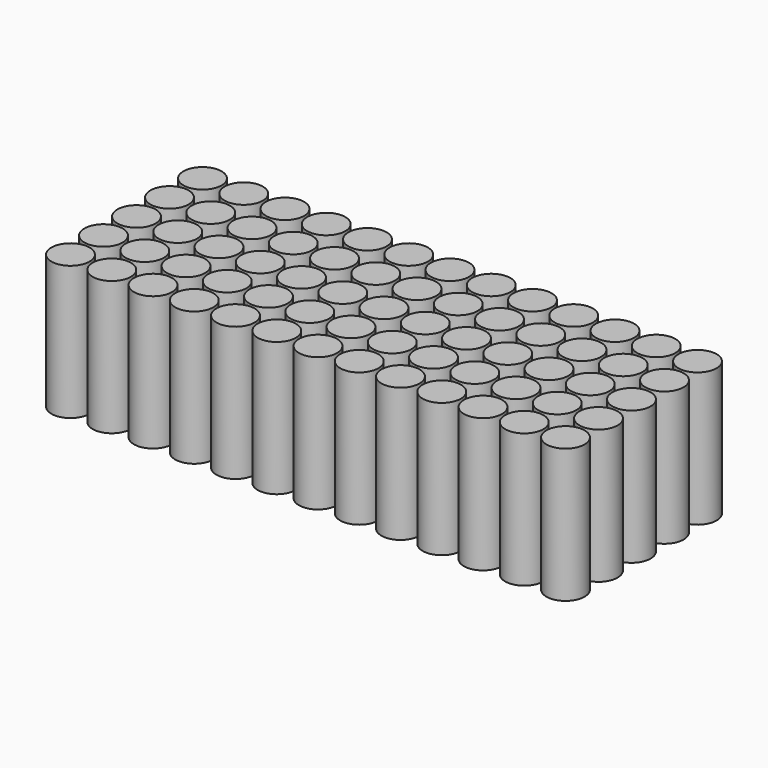
from build123d import *

# Parameters (mm, degrees)
F0_R     = 9.25
F1_DEPTH = 65


with BuildPart() as f1:
    # F0 (on Top) → F1 (new body)
    with BuildSketch(Plane.XY):
        with Locations((-84.008351, 22.78617)):
            Circle(F0_R)
        with Locations((-84.008351, 42.78617)):
            Circle(F0_R)
        with Locations((-84.008351, 62.78617)):
            Circle(F0_R)
        with Locations((-84.008351, 82.78617)):
            Circle(F0_R)
        with Locations((-84.008351, 102.78617)):
            Circle(F0_R)
        with Locations((-64.008351, 22.78617)):
            Circle(F0_R)
        with Locations((-64.008351, 42.78617)):
            Circle(F0_R)
        with Locations((-64.008351, 62.78617)):
            Circle(F0_R)
        with Locations((-64.008351, 82.78617)):
            Circle(F0_R)
        with Locations((-64.008351, 102.78617)):
            Circle(F0_R)
        with Locations((-44.008351, 22.78617)):
            Circle(F0_R)
        with Locations((-44.008351, 42.78617)):
            Circle(F0_R)
        with Locations((-44.008351, 62.78617)):
            Circle(F0_R)
        with Locations((-44.008351, 82.78617)):
            Circle(F0_R)
        with Locations((-44.008351, 102.78617)):
            Circle(F0_R)
        with Locations((-24.008351, 22.78617)):
            Circle(F0_R)
        with Locations((-24.008351, 42.78617)):
            Circle(F0_R)
        with Locations((-24.008351, 62.78617)):
            Circle(F0_R)
        with Locations((-24.008351, 82.78617)):
            Circle(F0_R)
        with Locations((-24.008351, 102.78617)):
            Circle(F0_R)
        with Locations((-4.008351, 22.78617)):
            Circle(F0_R)
        with Locations((-4.008351, 42.78617)):
            Circle(F0_R)
        with Locations((-4.008351, 62.78617)):
            Circle(F0_R)
        with Locations((-4.008351, 82.78617)):
            Circle(F0_R)
        with Locations((-4.008351, 102.78617)):
            Circle(F0_R)
        with Locations((15.991649, 22.78617)):
            Circle(F0_R)
        with Locations((15.991649, 42.78617)):
            Circle(F0_R)
        with Locations((15.991649, 62.78617)):
            Circle(F0_R)
        with Locations((15.991649, 82.78617)):
            Circle(F0_R)
        with Locations((15.991649, 102.78617)):
            Circle(F0_R)
        with Locations((35.991649, 22.78617)):
            Circle(F0_R)
        with Locations((35.991649, 42.78617)):
            Circle(F0_R)
        with Locations((35.991649, 62.78617)):
            Circle(F0_R)
        with Locations((35.991649, 82.78617)):
            Circle(F0_R)
        with Locations((35.991649, 102.78617)):
            Circle(F0_R)
        with Locations((55.991649, 22.78617)):
            Circle(F0_R)
        with Locations((55.991649, 42.78617)):
            Circle(F0_R)
        with Locations((55.991649, 62.78617)):
            Circle(F0_R)
        with Locations((55.991649, 82.78617)):
            Circle(F0_R)
        with Locations((55.991649, 102.78617)):
            Circle(F0_R)
        with Locations((75.991649, 22.78617)):
            Circle(F0_R)
        with Locations((75.991649, 42.78617)):
            Circle(F0_R)
        with Locations((75.991649, 62.78617)):
            Circle(F0_R)
        with Locations((75.991649, 82.78617)):
            Circle(F0_R)
        with Locations((75.991649, 102.78617)):
            Circle(F0_R)
        with Locations((95.991649, 22.78617)):
            Circle(F0_R)
        with Locations((95.991649, 42.78617)):
            Circle(F0_R)
        with Locations((95.991649, 62.78617)):
            Circle(F0_R)
        with Locations((95.991649, 82.78617)):
            Circle(F0_R)
        with Locations((95.991649, 102.78617)):
            Circle(F0_R)
        with Locations((115.991649, 22.78617)):
            Circle(F0_R)
        with Locations((115.991649, 42.78617)):
            Circle(F0_R)
        with Locations((115.991649, 62.78617)):
            Circle(F0_R)
        with Locations((115.991649, 82.78617)):
            Circle(F0_R)
        with Locations((115.991649, 102.78617)):
            Circle(F0_R)
        with Locations((135.991649, 22.78617)):
            Circle(F0_R)
        with Locations((135.991649, 42.78617)):
            Circle(F0_R)
        with Locations((135.991649, 62.78617)):
            Circle(F0_R)
        with Locations((135.991649, 82.78617)):
            Circle(F0_R)
        with Locations((135.991649, 102.78617)):
            Circle(F0_R)
        with Locations((155.991649, 22.78617)):
            Circle(F0_R)
        with Locations((155.991649, 42.78617)):
            Circle(F0_R)
        with Locations((155.991649, 62.78617)):
            Circle(F0_R)
        with Locations((155.991649, 82.78617)):
            Circle(F0_R)
        with Locations((155.991649, 102.78617)):
            Circle(F0_R)
    extrude(amount=F1_DEPTH)


solid = f1.part
